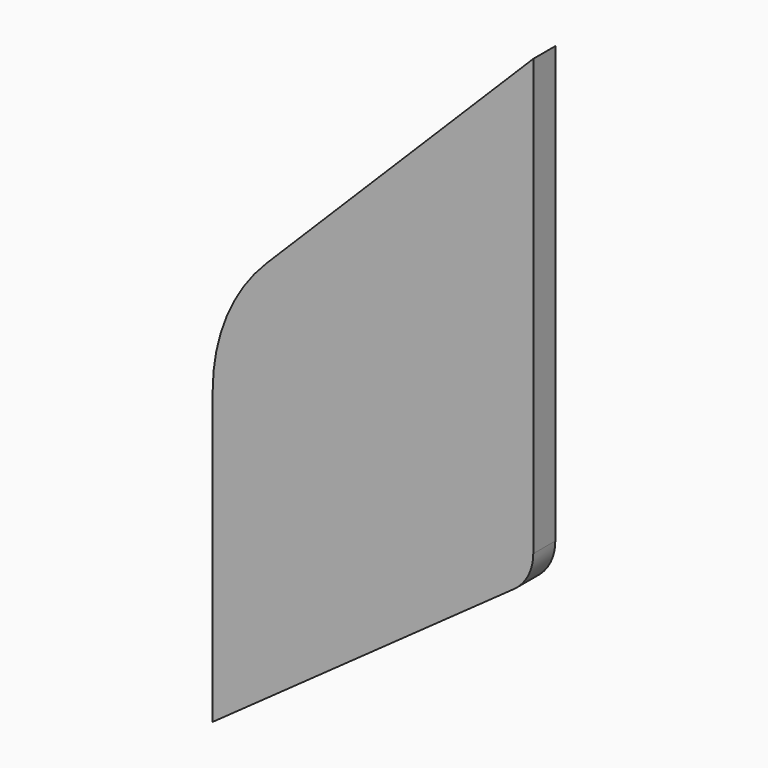
from build123d import *

# Parameters (mm, degrees)
PAD007_DEPTH            = 1.5
FILLET008_R             = 20
FILLET009_R             = 5
BODY008_PLACEMENT_ANGLE = 90


with BuildPart() as part:
    # Sketch012 → Pad007 (new body, symmetric)
    with BuildSketch(Plane.YZ):
        Polygon((27, -2.5), (61.9, -27.3999999995), (61.9, 12.6000000005), (27, 47.5), align=None)
    extrude(amount=PAD007_DEPTH, both=True)

    # Fillet008
    fillet008_edges = [part.edges().sort_by_distance(p)[0] for p in [
        (0, 61.9, 12.6),
    ]]
    fillet(fillet008_edges, radius=FILLET008_R)

    # Fillet009
    fillet009_edges = [part.edges().sort_by_distance(p)[0] for p in [
        (0, 27, -2.5),
    ]]
    fillet(fillet009_edges, radius=FILLET009_R)


with BuildPart() as part_1:
    # Body008 placement: moved
    add(part.part.rotate(Axis((0, 0, 0), (0, 0, 1)), BODY008_PLACEMENT_ANGLE))


solid = part_1.part
